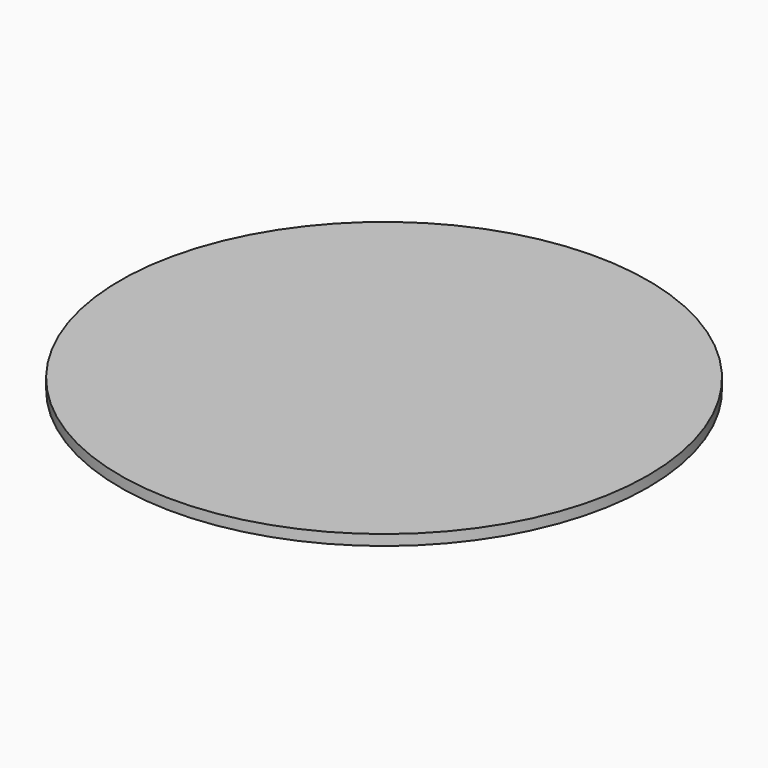
from build123d import *

# Parameters (mm, degrees)
F1_DEPTH = 3


with BuildPart() as f1:
    # F0 (on Top) → F1 (new body)
    with BuildSketch(Plane.XY):
        with BuildLine():
            ThreePointArc((-75, 0), (0, -75), (75, 0))
            ThreePointArc((75, 0), (0, 75), (-75, 0))
        make_face()
    extrude(amount=F1_DEPTH)


solid = f1.part
